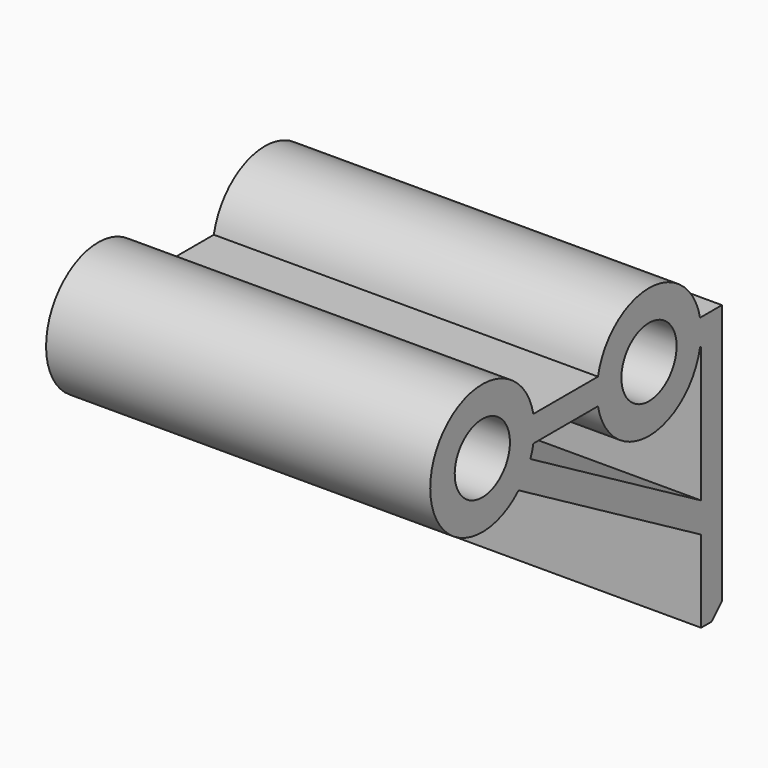
from build123d import *

# Parameters (mm, degrees)
CYLINDER045_R          = 2.65
CYLINDER045_DEPTH      = 29.5
CYLINDER046_R          = 2.65
CYLINDER046_DEPTH      = 29.5
BOX040_W               = 29.5
BOX040_H               = 19
BOX040_DEPTH           = 2
BOX039_W               = 29.5
BOX039_H               = 23
BOX039_DEPTH           = 2
BOX039_PLACEMENT_ANGLE = 30
CYLINDER043_R          = 5
CYLINDER043_DEPTH      = 29.5
BOX041_W               = 29.5
BOX041_H               = 2
BOX041_DEPTH           = 21
CYLINDER044_R          = 5
CYLINDER044_DEPTH      = 29.5
CHAMFER006035_SIZE     = 1


with BuildPart() as cylinder045:
    # Cylinder045 → Cylinder045 (new body)
    with BuildSketch(Plane(origin=(15, -8, 15), x_dir=(0, 0, -1), z_dir=(1, 0, 0))):
        Circle(CYLINDER045_R)
    extrude(amount=CYLINDER045_DEPTH)


with BuildPart() as fusion020006007003002009018004004012:
    # Cylinder046 → Cylinder046 (new body)
    with BuildSketch(Plane(origin=(15, 8, 15), x_dir=(0, 0, -1), z_dir=(1, 0, 0))):
        Circle(CYLINDER046_R)
    extrude(amount=CYLINDER046_DEPTH)

    # Fusion020006007003002009018004004012: union Cylinder045
    add(cylinder045.part)


with BuildPart() as cube040:
    # Box040 → Box040 (new body)
    with BuildSketch(Plane(origin=(15, -5, 14), x_dir=(1, 0, 0), z_dir=(0, 0, 1))):
        with Locations((14.75, 9.5)):
            Rectangle(BOX040_W, BOX040_H)
    extrude(amount=BOX040_DEPTH)


with BuildPart() as cube039:
    # Box039 → Box039 (new body)
    with BuildSketch(Plane.XY):
        with Locations((14.75, 11.5)):
            Rectangle(BOX039_W, BOX039_H)
    extrude(amount=BOX039_DEPTH)


with BuildPart() as cube039_1:
    # Box039 placement: moved
    add(cube039.part.moved(Location((15, -6, 12.267949))).rotate(Axis((15, -6, 12.267949), (-1, 0, 0)), BOX039_PLACEMENT_ANGLE))


with BuildPart() as cylinder043:
    # Cylinder043 → Cylinder043 (new body)
    with BuildSketch(Plane(origin=(15, 8, 15), x_dir=(0, 0, -1), z_dir=(1, 0, 0))):
        Circle(CYLINDER043_R)
    extrude(amount=CYLINDER043_DEPTH)


with BuildPart() as cube041:
    # Box041 → Box041 (new body)
    with BuildSketch(Plane(origin=(15, 13, -5), x_dir=(1, 0, 0), z_dir=(0, 0, 1))):
        with Locations((14.75, 1)):
            Rectangle(BOX041_W, BOX041_H)
    extrude(amount=BOX041_DEPTH)


with BuildPart() as bottom_back_30mm_wall:
    # Cylinder044 → Cylinder044 (new body)
    with BuildSketch(Plane(origin=(15, -8, 15), x_dir=(0, 0, -1), z_dir=(1, 0, 0))):
        Circle(CYLINDER044_R)
    extrude(amount=CYLINDER044_DEPTH)

    # Fusion020006007003002009018004004011: union Cube040, Cube039, Cylinder043, Cube041
    add(cube040.part)
    add(cube039_1.part)
    add(cylinder043.part)
    add(cube041.part)

    # Chamfer006035
    chamfer006035_edges = [bottom_back_30mm_wall.edges().sort_by_distance(p)[0] for p in [
        (29.75, 15, -5),
    ]]
    chamfer(chamfer006035_edges, length=CHAMFER006035_SIZE)

    # Cut019003004: cut Fusion020006007003002009018004004012
    add(fusion020006007003002009018004004012.part, mode=Mode.SUBTRACT)


solid = bottom_back_30mm_wall.part
